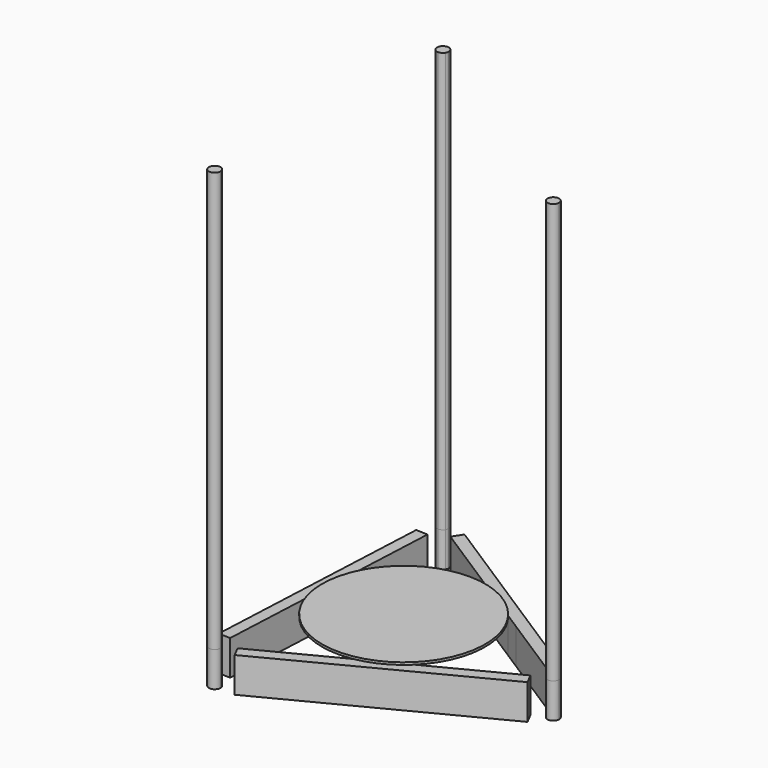
from build123d import *

# Parameters (mm, degrees)
F1_DEPTH      = 720
F1_DEPTH_BACK = 60
F2_DEPTH      = 60
F3_DEPTH      = 4


with BuildPart() as f1:
    # F0 (on Top) → F1 (new body, two sides)
    with BuildSketch(Plane.XY) as f1_sk:
        with BuildLine():
            ThreePointArc((276.7638016146, -12.5562208278), (269.5784120932, -2.9604942866), (258.3482080438, -7.1545743333))
            Line((258.3482080438, -7.1545743333), (266.7638016146, -12.5562208278))
            Line((266.7638016146, -12.5562208278), (257.8780417427, -17.1435154008))
            ThreePointArc((257.8780417427, -17.1435154008), (269.124140709, -22.2736690196), (276.7638016146, -12.5562208278))
        make_face()
        with BuildLine():
            Line((266.7638016146, -12.5562208278), (258.3482080438, -7.1545743333))
            ThreePointArc((258.3482080438, -7.1545743333), (256.7748605471, -12.0860545267), (257.8780417427, -17.1435154008))
            Line((257.8780417427, -17.1435154008), (266.7638016146, -12.5562208278))
        make_face()
    extrude(amount=F1_DEPTH)
    extrude(f1_sk.sketch, amount=-F1_DEPTH_BACK)


with BuildPart() as f1b:
    # F0 (on Top) → F1, piece 2 (new body, two sides)
    with BuildSketch(Plane.XY) as f1_2_sk:
        with BuildLine():
            Line((-144.2559070197, -224.7461185944), (-135.3701471478, -220.1588240214))
            ThreePointArc((-135.3701471478, -220.1588240214), (-138.8542605252, -216.3305250236), (-143.7857407186, -214.7571775269))
            Line((-143.7857407186, -214.7571775269), (-144.2559070197, -224.7461185944))
        make_face()
        with BuildLine():
            ThreePointArc((-134.2559070197, -224.7461185944), (-134.538458828, -222.3857795), (-135.3701471478, -220.1588240214))
            Line((-135.3701471478, -220.1588240214), (-144.2559070197, -224.7461185944))
            Line((-144.2559070197, -224.7461185944), (-143.7857407186, -214.7571775269))
            ThreePointArc((-143.7857407186, -214.7571775269), (-151.4912944665, -231.6489563076), (-134.2559070197, -224.7461185944))
        make_face()
    extrude(amount=F1_DEPTH)
    extrude(f1_2_sk.sketch, amount=-F1_DEPTH_BACK)


with BuildPart() as f1c:
    # F0 (on Top) → F1, piece 3 (new body, two sides)
    with BuildSketch(Plane.XY) as f1_3_sk:
        with BuildLine():
            ThreePointArc((-122.978060896, 227.3133983548), (-117.9206000219, 228.4165795504), (-114.0923010241, 231.9006929277))
            Line((-114.0923010241, 231.9006929277), (-122.5078945948, 237.3023394222))
            Line((-122.5078945948, 237.3023394223), (-122.978060896, 227.3133983548))
        make_face()
        with BuildLine():
            Line((-122.5078945948, 237.3023394222), (-114.0923010241, 231.9006929277))
            ThreePointArc((-114.0923010241, 231.9006929277), (-112.9121680536, 234.4877289437), (-112.5078945948, 237.3023394223))
            ThreePointArc((-112.5078945948, 237.3023394223), (-129.410732308, 244.5377268691), (-122.978060896, 227.3133983548))
            Line((-122.978060896, 227.3133983548), (-122.5078945948, 237.3023394223))
        make_face()
    extrude(amount=F1_DEPTH)
    extrude(f1_3_sk.sketch, amount=-F1_DEPTH_BACK)


with BuildPart() as f2:
    # F0 (on Top) → F2 (new body)
    with BuildSketch(Plane.XY):
        with BuildLine():
            ThreePointArc((70.4285357503, -136.4226898127), (33.2793326675, -149.8793346692), (-6.0739824516, -153.4093728585))
            Line((-6.0739824516, -153.4093728585), (-116.4612501404, -210.3970611702))
            Line((-116.4612501404, -210.3970611702), (-107.2866609945, -228.168580914))
            Line((-107.2866609945, -228.168580914), (70.4285357503, -136.4226898127))
        make_face()
        with BuildLine():
            Line((238.9691447353, -26.905278252), (128.5818770465, -83.8929665637))
            ThreePointArc((128.5818770465, -83.8929665637), (102.9132112828, -113.9306801837), (70.4285357503, -136.4226898127))
            Line((70.4285357503, -136.4226898127), (248.1437338812, -44.6767979958))
            Line((248.1437338812, -44.6767979958), (238.9691447353, -26.905278252))
        make_face()
        with BuildLine():
            Line((98.6360113438, -99.3525906365), (61.2539473835, -118.6511696667))
            Line((61.2539473835, -118.6511696667), (23.871883251, -137.9497487857))
            ThreePointArc((23.871883251, -137.9497487857), (64.2221240214, -124.4006382065), (98.6360113438, -99.3525906365))
        make_face()
        with BuildLine():
            Line((128.5818770465, -83.8929665637), (98.6360113438, -99.3525906365))
            ThreePointArc((98.6360113438, -99.3525906365), (64.2221240214, -124.4006382065), (23.871883251, -137.9497487857))
            Line((23.871883251, -137.9497487857), (-6.0739824516, -153.4093728585))
            ThreePointArc((-6.0739824516, -153.4093728585), (33.2793326675, -149.8793346692), (70.4285357503, -136.4226898127))
            ThreePointArc((70.4285357503, -136.4226898127), (102.9132112828, -113.9306801837), (128.5818770465, -83.8929665637))
        make_face()
    extrude(amount=-F2_DEPTH)


with BuildPart() as f2b:
    # F0 (on Top) → F2, piece 2 (new body)
    with BuildSketch(Plane.XY):
        with BuildLine():
            ThreePointArc((-153.3597829644, 7.218442544), (-146.4389778477, 46.1189192262), (-129.8194228483, 81.9649095345))
            Line((-129.8194228483, 81.9649095345), (-123.9785747848, 206.0569317632))
            Line((-123.9785747848, 206.0569317632), (-143.9564569197, 206.9972643655))
            Line((-143.9564569197, 206.9972643655), (-153.3597829644, 7.218442544))
        make_face()
        with BuildLine():
            Line((-135.3598730949, -35.7449962334), (-133.3819010578, 6.2781050924))
            Line((-133.3819010578, 6.2781050924), (-131.4039285197, 48.3012170613))
            ThreePointArc((-131.4039285197, 48.3012170613), (-139.8451749445, 6.5823282158), (-135.3598730949, -35.7449962334))
        make_face()
        with BuildLine():
            Line((-142.7852268298, -193.5007109354), (-136.9443787663, -69.4086887067))
            ThreePointArc((-136.9443787663, -69.4086887067), (-150.1234688197, -32.1601158765), (-153.3597829644, 7.218442544))
            Line((-153.3597829644, 7.218442544), (-162.7631089647, -192.5603783331))
            Line((-162.7631089647, -192.5603783331), (-142.7852268298, -193.5007109354))
        make_face()
        with BuildLine():
            Line((-136.9443787663, -69.4086887067), (-135.3598730949, -35.7449962334))
            ThreePointArc((-135.3598730949, -35.7449962334), (-139.8451749445, 6.5823282158), (-131.4039285197, 48.3012170613))
            Line((-131.4039285197, 48.3012170613), (-129.8194228483, 81.9649095345))
            ThreePointArc((-129.8194228483, 81.9649095345), (-146.4389778477, 46.1189192262), (-153.3597829644, 7.218442544))
            ThreePointArc((-153.3597829644, 7.218442544), (-150.1234688197, -32.1601158765), (-136.9443787663, -69.4086887067))
        make_face()
    extrude(amount=-F2_DEPTH)


with BuildPart() as f2c:
    # F0 (on Top) → F2, piece 3 (new body)
    with BuildSketch(Plane.XY):
        with BuildLine():
            Line((-96.1839179055, 220.4059891874), (8.3625017198, 153.3016552704))
            ThreePointArc((8.3625017198, 153.3016552704), (47.2102590205, 146.0907950108), (82.9312495473, 129.2042444821))
            Line((82.9312495473, 129.2042444821), (-85.3806249165, 237.237176329))
            Line((-85.3806249165, 237.237176329), (-96.1839179055, 220.4059891874))
        make_face()
        with BuildLine():
            ThreePointArc((82.9312495473, 129.2042444821), (113.1596459525, 103.7604137981), (135.8934052999, 71.444463324))
            Line((135.8934052999, 71.444463324), (240.4398249252, 4.340129407))
            Line((240.4398249252, 4.340129407), (251.2431179142, 21.1713165485))
            Line((251.2431179142, 21.1713165485), (82.9312495473, 129.2042444821))
        make_face()
        with BuildLine():
            Line((36.7238617511, 135.09758687), (72.1279579672, 112.3730564362))
            Line((72.1279579672, 112.3730564362), (107.5320452686, 89.6485317244))
            ThreePointArc((107.5320452686, 89.6485317244), (75.6230509232, 117.8183099907), (36.7238617511, 135.09758687))
        make_face()
        with BuildLine():
            Line((8.3625017198, 153.3016552704), (36.7238617511, 135.09758687))
            ThreePointArc((36.7238617511, 135.09758687), (75.6230509232, 117.8183099907), (107.5320452686, 89.6485317244))
            Line((107.5320452686, 89.6485317244), (135.8934052999, 71.444463324))
            ThreePointArc((135.8934052999, 71.444463324), (113.1596459525, 103.7604137981), (82.9312495473, 129.2042444821))
            ThreePointArc((82.9312495473, 129.2042444821), (47.2102590205, 146.0907950108), (8.3625017198, 153.3016552704))
        make_face()
    extrude(amount=-F2_DEPTH)


with BuildPart() as f3:
    # F0 (on Top) → F3 (new body)
    with BuildSketch(Plane.XY):
        with BuildLine():
            ThreePointArc((-133.3819010578, 6.2781050924), (-61.2539473111, 118.6511697041), (72.1279579672, 112.3730564362))
            Line((72.1279579672, 112.3730564362), (36.7238617511, 135.09758687))
            ThreePointArc((36.7238617511, 135.09758687), (-64.2221240214, 124.4006382065), (-131.4039285197, 48.3012170613))
            Line((-131.4039285197, 48.3012170613), (-133.3819010578, 6.2781050924))
        make_face()
        with BuildLine():
            ThreePointArc((61.2539473835, -118.6511696667), (114.0380625144, -69.4655773121), (133.5295702582, 0))
            ThreePointArc((133.5295702582, 0), (117.1779871911, 64.0270681133), (72.1279579672, 112.3730564362))
            ThreePointArc((72.1279579672, 112.3730564362), (-61.2539473111, 118.6511697041), (-133.3819010578, 6.2781050924))
            ThreePointArc((-133.3819010578, 6.2781050924), (-72.1279512275, -112.3730607622), (61.2539473835, -118.6511696667))
        make_face()
        with BuildLine():
            Line((36.7238617511, 135.09758687), (72.1279579672, 112.3730564362))
            Line((72.1279579672, 112.3730564362), (107.5320452686, 89.6485317244))
            ThreePointArc((107.5320452686, 89.6485317244), (75.6230509232, 117.8183099907), (36.7238617511, 135.09758687))
        make_face()
        with BuildLine():
            ThreePointArc((72.1279579672, 112.3730564362), (117.1779871911, 64.0270681133), (133.5295702582, 0))
            ThreePointArc((133.5295702582, 0), (114.0380625144, -69.4655773121), (61.2539473835, -118.6511696667))
            Line((61.2539473835, -118.6511696667), (98.6360113438, -99.3525906365))
            ThreePointArc((98.6360113438, -99.3525906365), (129.245970127, -53.809657181), (140, 0))
            ThreePointArc((140, 0), (131.6329866287, 47.6734394731), (107.5320452686, 89.6485317244))
            Line((107.5320452686, 89.6485317244), (72.1279579672, 112.3730564362))
        make_face()
        with BuildLine():
            Line((23.871883251, -137.9497487857), (61.2539473835, -118.6511696667))
            ThreePointArc((61.2539473835, -118.6511696667), (-72.1279512275, -112.3730607622), (-133.3819010578, 6.2781050924))
            Line((-133.3819010578, 6.2781050924), (-135.3598730949, -35.7449962334))
            ThreePointArc((-135.3598730949, -35.7449962334), (-75.6230509232, -117.8183099907), (23.871883251, -137.9497487857))
        make_face()
        with BuildLine():
            Line((-135.3598730949, -35.7449962334), (-133.3819010578, 6.2781050924))
            Line((-133.3819010578, 6.2781050924), (-131.4039285197, 48.3012170613))
            ThreePointArc((-131.4039285197, 48.3012170613), (-139.8451749445, 6.5823282158), (-135.3598730949, -35.7449962334))
        make_face()
        with BuildLine():
            Line((98.6360113438, -99.3525906365), (61.2539473835, -118.6511696667))
            Line((61.2539473835, -118.6511696667), (23.871883251, -137.9497487857))
            ThreePointArc((23.871883251, -137.9497487857), (64.2221240214, -124.4006382065), (98.6360113438, -99.3525906365))
        make_face()
    extrude(amount=F3_DEPTH)


solid = Compound([f1.part, f1b.part, f1c.part, f2.part, f2b.part, f2c.part, f3.part])
